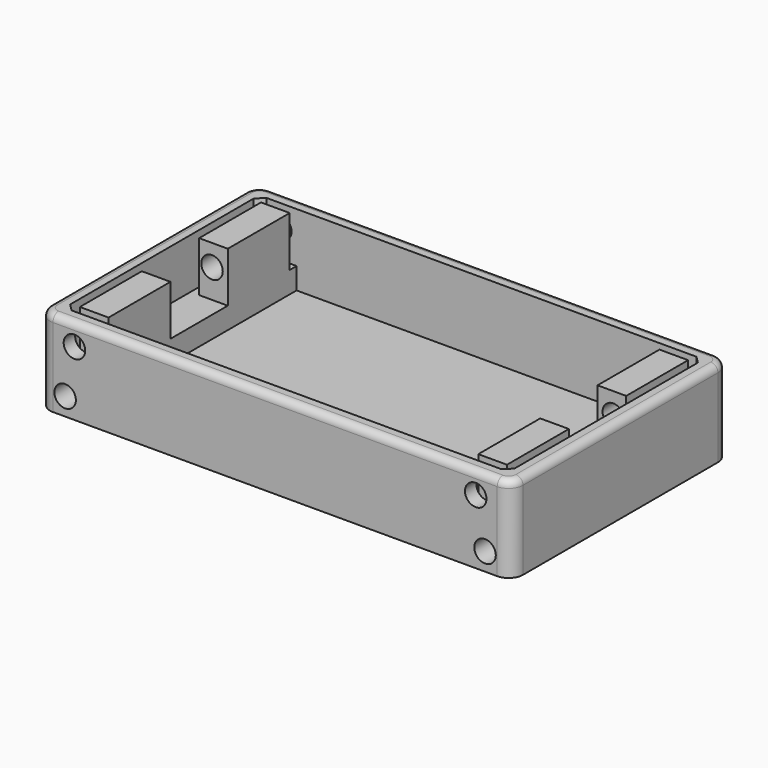
from build123d import *

# Parameters (mm, degrees)
F0_W      = 66
F0_H      = 38
F1_DEPTH  = 2
F2_W      = 66
F2_H      = 38
F2_W_2    = 62
F2_H_2    = 34
F3_DEPTH  = 10
F4_SIZE   = 1
F5_R      = 2
F6_R      = 1
F7_W      = 5.2
F7_H      = 34
F8_DEPTH  = 3
F9_R      = 1.5
F10_DEPTH = 38.001
F11_W     = 4
F11_H     = 10.8
F12_DEPTH = 7
F13_R     = 1.5
F14_DEPTH = 38.001


with BuildPart() as f1:
    # F0 (on Top) → F1 (new body)
    with BuildSketch(Plane.XY):
        with Locations((33, -19)):
            Rectangle(F0_W, F0_H)
    extrude(amount=F1_DEPTH)

    # F2 (on face) → F3 (join)
    with BuildSketch(Plane.XY.offset(2)):
        with Locations((33, -19)):
            Rectangle(F2_W, F2_H)
        with Locations((33, -19)):
            Rectangle(F2_W_2, F2_H_2, mode=Mode.SUBTRACT)
    extrude(amount=F3_DEPTH)

    # F4
    f4_edges = [f1.edges().sort_by_distance(p)[0] for p in [
        (2, -2, 7),
        (2, -36, 7),
        (64, -2, 7),
        (64, -36, 7),
    ]]
    chamfer(f4_edges, length=F4_SIZE)

    # F5
    f5_edges = [f1.edges().sort_by_distance(p)[0] for p in [
        (0, -38, 6),
        (66, -38, 6),
        (66, 0, 6),
        (0, 0, 6),
    ]]
    fillet(f5_edges, radius=F5_R)

    # F6
    f6_edges = [f1.edges().sort_by_distance(p)[0] for p in [
        (0, -19, 12),
        (33, -38, 12),
        (66, -19, 12),
        (33, 0, 12),
    ]]
    fillet(f6_edges, radius=F6_R)

    # F7 (on face) → F8 (join)
    with BuildSketch(Plane.XY.offset(2)):
        with Locations((4.6, -19)):
            Rectangle(F7_W, F7_H)
        with Locations((61.4, -19)):
            Rectangle(F7_W, F7_H)
    extrude(amount=F8_DEPTH)

    # F9 (on face) → F10 (cut, through all)
    with BuildSketch(Plane.XZ.offset(38)):
        with Locations((3.7, 2.5)):
            Circle(F9_R)
        with Locations((62.3, 2.5)):
            Circle(F9_R)
    extrude(amount=-F10_DEPTH, mode=Mode.SUBTRACT)

    # F11 (on face) → F12 (join)
    with BuildSketch(Plane.XY.offset(5)):
        with Locations((5.2, -8.6)):
            Rectangle(F11_W, F11_H)
        with Locations((5.2, -29.4)):
            Rectangle(F11_W, F11_H)
        with Locations((60.8, -8.6)):
            Rectangle(F11_W, F11_H)
        with Locations((60.8, -29.4)):
            Rectangle(F11_W, F11_H)
    extrude(amount=F12_DEPTH)

    # F13 (on face) → F14 (cut, through all)
    with BuildSketch(Plane.XZ.offset(38)):
        with Locations((5, 9)):
            Circle(F13_R)
        with Locations((61, 9)):
            Circle(F13_R)
    extrude(amount=-F14_DEPTH, mode=Mode.SUBTRACT)


solid = f1.part
